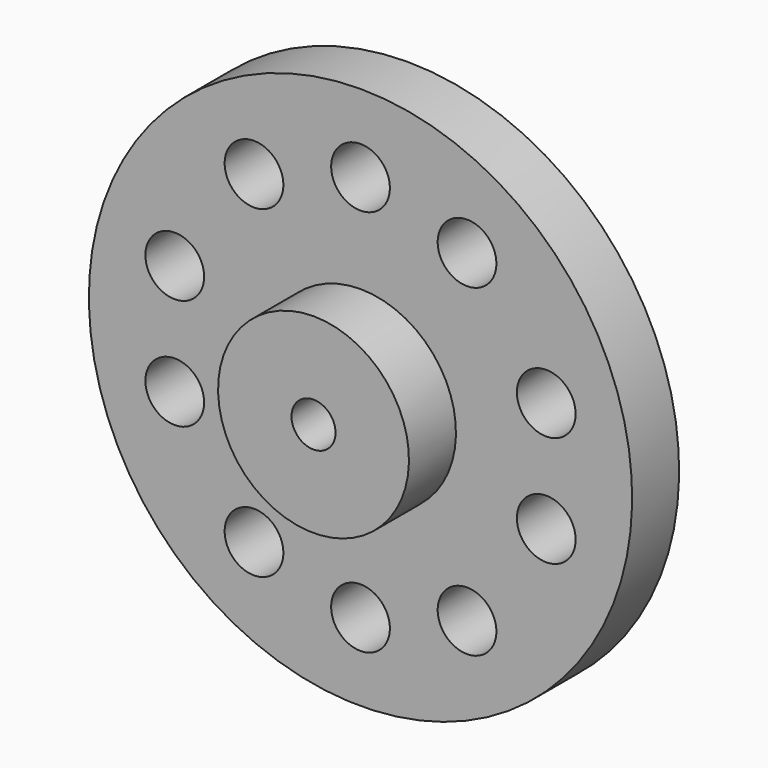
from build123d import *

# Parameters (mm, degrees)
F5_D = 12.7


with BuildPart() as f1:
    # F0 (on Right) → F1 (revolve)
    with BuildSketch(Plane.YZ):
        Polygon((0, 25.4), (0, 9.525), (25.4, 9.525), (25.4, 63.5), (12.7, 63.5), (12.7, 25.4), align=None)
    revolve(axis=Axis((0, 12.7, 4.7625), (0, 1, 0)))

    # F5 (through all)
    with Locations(Plane.XZ.offset(-12.7)):
        with Locations((0, 46.672691), (-23.030009, 39.777814), (-40.162871, 16.737212), (-40.162871, -7.212056), (-23.030009, -30.252659), (0, -37.147422), (23.030009, -30.252659), (40.162871, -7.212056), (40.162871, 16.737212), (23.030009, 39.777814)):
            Hole(F5_D / 2)


solid = f1.part
